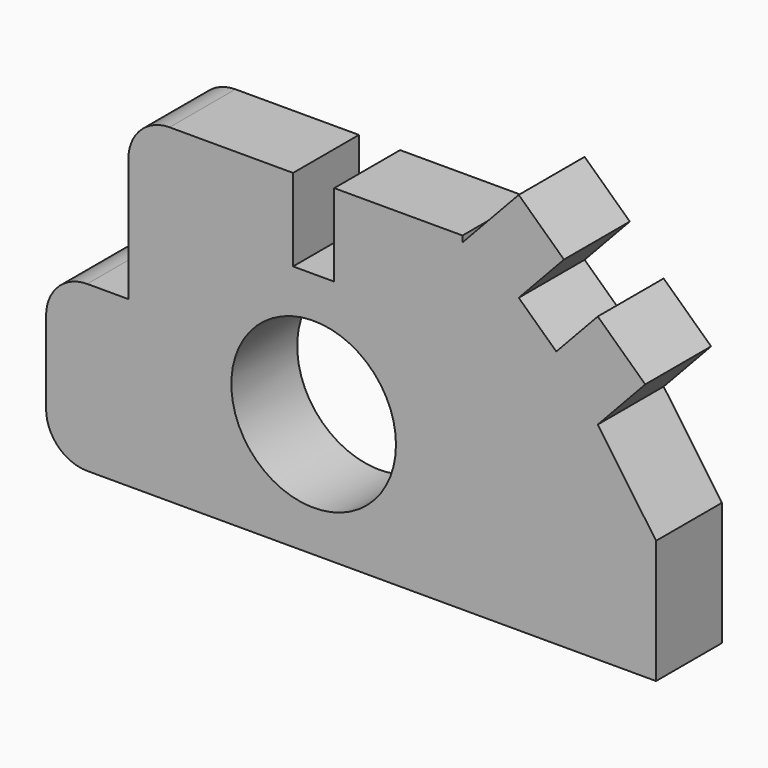
from build123d import *

# Parameters (mm, degrees)
F0_R     = 254
F1_DEPTH = 254


with BuildPart() as f1:
    # F0 (on Front) → F1 (new body)
    with BuildSketch(Plane.XZ):
        with BuildLine():
            ThreePointArc((-227.329998, 127), (-190.13256, 37.197439), (-100.329998, 0))
            Line((-100.329998, 0), (1550.670002, 0))
            Line((1550.670002, 0), (1654.592514, 0))
            Line((1654.592514, 0), (1654.592514, 381))
            Line((1654.592514, 381), (1474.771318, 638.244218))
            Line((1474.771318, 638.244218), (1621.227109, 794.942517))
            Line((1621.227109, 794.942517), (1474.771318, 931.825298))
            Line((1474.771318, 931.825298), (1346.835812, 794.942517))
            Line((1346.835812, 794.942517), (1230.950807, 903.252757))
            Line((1230.950807, 903.252757), (1370.422253, 1052.478254))
            Line((1370.422253, 1052.478254), (1230.950807, 1182.833217))
            Line((1230.950807, 1182.833217), (1057.512871, 997.265756))
            Line((1057.512871, 997.265756), (1057.512871, 1016))
            Line((1057.512871, 1016), (803.512871, 1016))
            Line((803.512871, 1016), (661.670002, 1016))
            Line((661.670002, 1016), (661.670002, 762))
            Line((661.670002, 762), (534.670002, 762))
            Line((534.670002, 762), (534.670002, 1016))
            Line((534.670002, 1016), (153.670002, 1016))
            ThreePointArc((153.670002, 1016), (63.86744, 978.802561), (26.670002, 889))
            Line((26.670002, 889), (26.670002, 508))
            Line((26.670002, 508), (-100.329998, 508))
            ThreePointArc((-100.329998, 508), (-190.13256, 470.802561), (-227.329998, 381))
            Line((-227.329998, 381), (-227.329998, 127))
        make_face()
        with Locations((598.170002, 381)):
            Circle(F0_R, mode=Mode.SUBTRACT)
    extrude(amount=F1_DEPTH)


solid = f1.part
